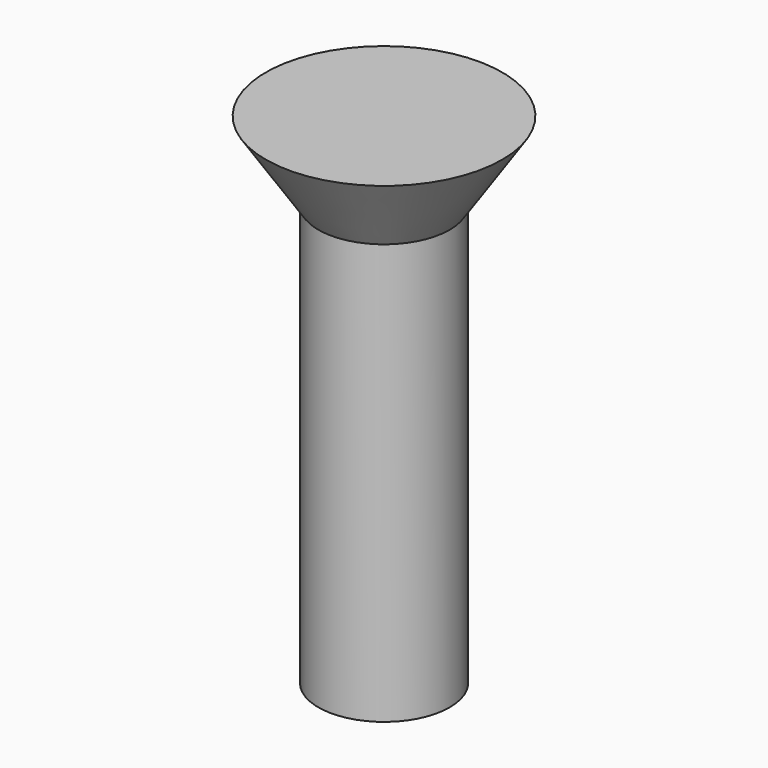
from build123d import *

# Parameters (mm, degrees)
CYLINDER011_R                   = 2.5
CYLINDER011_DEPTH               = 16
FUSION001018017_PLACEMENT_ANGLE = 180
CLONE024_PLACEMENT_ANGLE        = 180


with BuildPart() as cone003:
    # Cone003 → Cone003 (revolve)
    with BuildSketch(Plane(origin=(0, 0, -3), x_dir=(1, 0, 0), z_dir=(0, -1, 0))):
        Polygon((0, 0), (4.5, 0), (2.5, 3), (0, 3), align=None)
    revolve(axis=Axis((0, 0, -3), (0, 0, 1)))


with BuildPart() as obj1:
    # Cylinder011 → Cylinder011 (new body)
    with BuildSketch(Plane.XY):
        Circle(CYLINDER011_R)
    extrude(amount=CYLINDER011_DEPTH)

    # Fusion001018017: union Cone003
    add(cone003.part)


with BuildPart() as obj1_1:
    # Fusion001018017 placement: moved
    add(obj1.part.moved(Location((45, 15, 21))).rotate(Axis((45, 15, 21), (0, 1, 0)), FUSION001018017_PLACEMENT_ANGLE))


with BuildPart() as obj1_2:
    # Clone024 placement: moved
    add(obj1_1.part.moved(Location((90, 270, 0))).rotate(Axis((90, 270, 0), (0, 0, 1)), CLONE024_PLACEMENT_ANGLE))


with BuildPart() as obj1_3:
    # Clone032 placement: moved
    add(obj1_2.part.moved(Location((270, 0, 0))))


with BuildPart() as obj1_4:
    # Clone035 placement: moved
    add(obj1_3.part.moved(Location((26, -210, 5))))


solid = obj1_4.part
